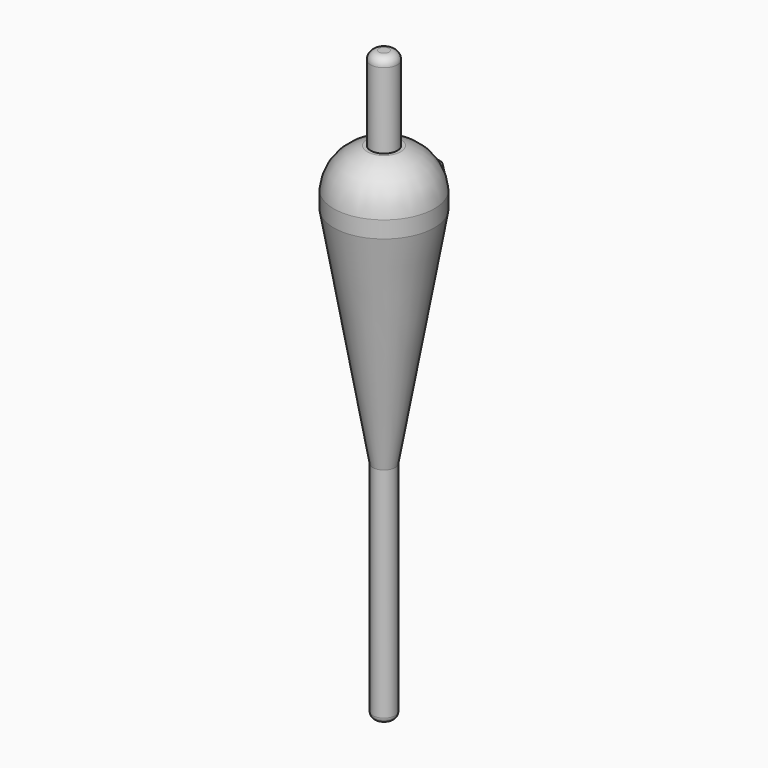
from build123d import *

# Parameters (mm, degrees)
F0_R      = 0.9
F1_DEPTH  = 3
F5_W      = 1.6
F5_H      = 8
F6_DEPTH  = 9
F7_R      = 0.9
F8_DEPTH  = 11.2
F9_R      = 2.4
F10_DEPTH = 15
F11_R     = 1.5


with BuildPart() as f1:
    # F0 (on Top) → F1 (new body)
    with BuildSketch(Plane.XY):
        with BuildLine():
            Line((-1.414214, 11.313708), (-6.363961, 6.363961))
            ThreePointArc((-6.363961, 6.363961), (0, -9), (6.363961, 6.363961))
            Line((6.363961, 6.363961), (1.414214, 11.313708))
            ThreePointArc((1.414214, 11.313708), (0, 11.899495), (-1.414214, 11.313708))
        make_face()
        with Locations((0, 9.899495)):
            Circle(F0_R, mode=Mode.SUBTRACT)
    extrude(amount=F1_DEPTH)

    # F2 (on Right) → F3 (revolve)
    with BuildSketch(Plane.YZ):
        with BuildLine():
            Line((0, 10), (0, 3))
            Line((0, 3), (9, 3))
            ThreePointArc((9, 3), (7.163441, 7.497235), (3, 10))
            Line((3, 10), (0, 10))
        make_face()
        with BuildLine():
            Line((9, 0), (0, 0))
            Line((0, 0), (0, -80))
            Line((0, -80), (1, -80))
            ThreePointArc((1, -80), (1.707107, -79.707107), (2, -79))
            Line((2, -79), (2, -40))
            Line((2, -40), (9, 0))
        make_face()
    revolve(axis=Axis((0, 0, -40), (0, 0, -1)))

    # F5 (on offset) → F6 (cut)
    with BuildSketch(Plane.XZ.offset(-9)):
        with Locations((0, -72.8)):
            Rectangle(F5_W, F5_H)
    extrude(amount=F6_DEPTH, mode=Mode.SUBTRACT)

    # F7 (on face) → F8 (cut)
    with BuildSketch(Plane(origin=(0, 0, -80), x_dir=(1, 0, 0), z_dir=(0, 0, -1))):
        Circle(F7_R)
    extrude(amount=-F8_DEPTH, mode=Mode.SUBTRACT)

    # F9 (on face) → F10 (join)
    with BuildSketch(Plane.XY.offset(10)):
        Circle(F9_R)
    extrude(amount=F10_DEPTH)

    # F11
    f11_edges = [f1.edges().sort_by_distance(p)[0] for p in [
        (-2.4, 0, 25),
    ]]
    fillet(f11_edges, radius=F11_R)


solid = f1.part
